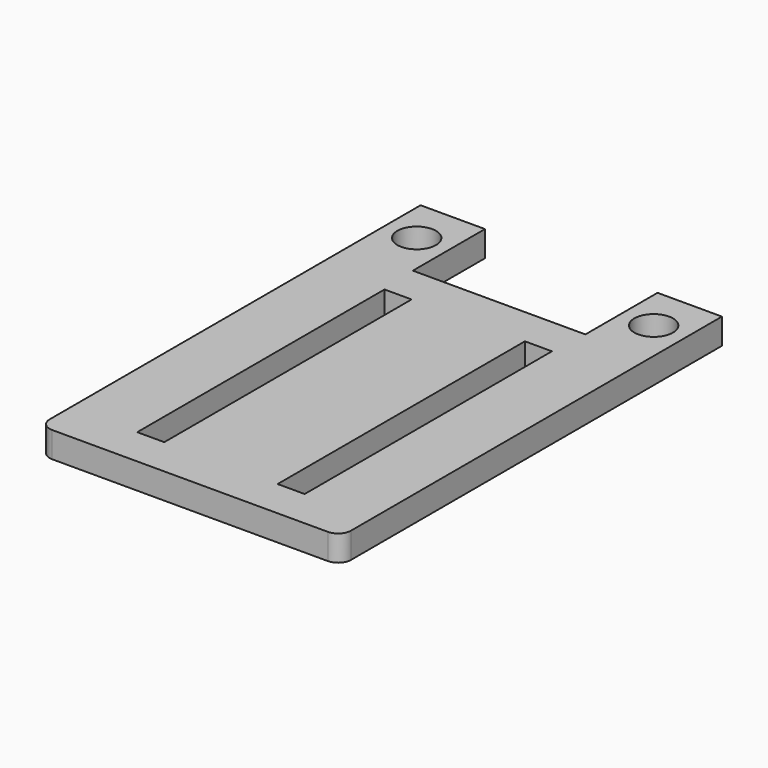
from build123d import *

# Parameters (mm, degrees)
SKETCH_R  = 1.5
SKETCH_W  = 2.1
SKETCH_H  = 24
PAD_DEPTH = 2
FILLET_R  = 1


with BuildPart() as part:
    # Sketch → Pad (new body)
    with BuildSketch(Plane.XY):
        Polygon((-11.7, 3.5), (-6.7, 3.5), (-6.7, -3.5), (6.7, -3.5), (6.7, 3.5), (11.7, 3.5), (11.7, -3.5), (11.7, -33.5), (-11.7, -33.5), (-11.7, -3.5), align=None)
        with Locations((-9.2, 0)):
            Circle(SKETCH_R, mode=Mode.SUBTRACT)
        with Locations((9.2, 0)):
            Circle(SKETCH_R, mode=Mode.SUBTRACT)
        with Locations((-5.45, -18.5)):
            Rectangle(SKETCH_W, SKETCH_H, mode=Mode.SUBTRACT)
        with Locations((5.45, -18.5)):
            Rectangle(SKETCH_W, SKETCH_H, mode=Mode.SUBTRACT)
    extrude(amount=PAD_DEPTH)

    # Fillet
    fillet_edges = [part.edges().sort_by_distance(p)[0] for p in [
        (-11.7, -33.5, 1),
        (11.7, -33.5, 1),
    ]]
    fillet(fillet_edges, radius=FILLET_R)


solid = part.part
